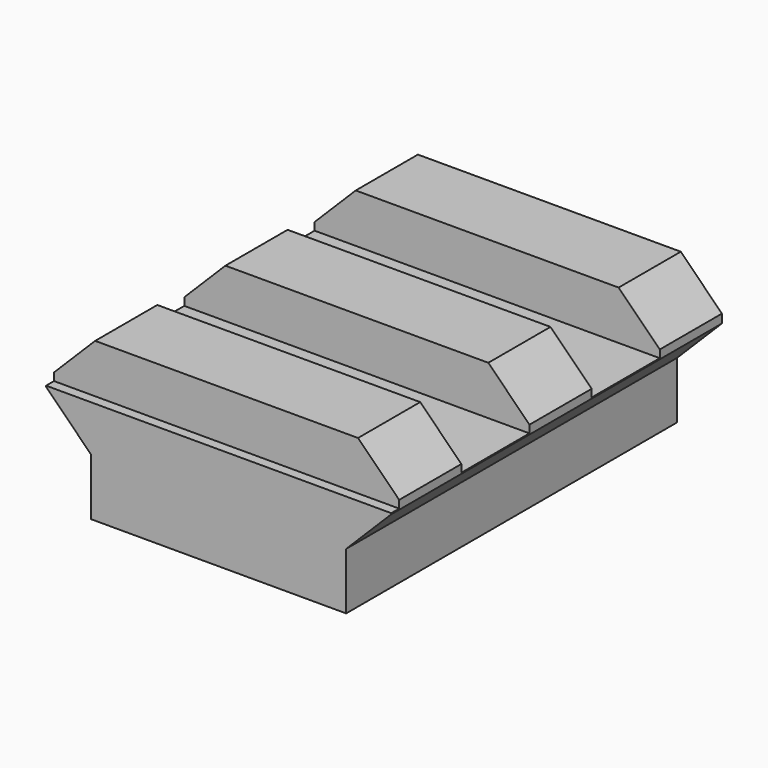
from build123d import *

# Parameters (mm, degrees)
F1_DEPTH = 25.4
F2_W     = 5.2324
F2_H     = 2.9972
F3_DEPTH = 21.21


with BuildPart() as f1:
    # F0 (on Front) → F1 (new body)
    with BuildSketch(Plane.XZ):
        Polygon((-7.8359, 3.4925), (-7.8359, 0), (7.8359, 0), (7.8359, 3.4925), (10.6045, 6.2611), (10.6045, 6.7945), (8.0772, 9.3218), (-8.0772, 9.3218), (-10.6045, 6.7945), (-10.6045, 6.2611), align=None)
    extrude(amount=F1_DEPTH)

    # F2 (on face) → F3 (cut, through all)
    with BuildSketch(Plane.YZ.offset(10.6045)):
        with Locations((2.6162, 7.8232)):
            Rectangle(F2_W, F2_H)
        with Locations((-7.3914, 7.8232)):
            Rectangle(F2_W, F2_H)
        with Locations((-17.399, 7.8232)):
            Rectangle(F2_W, F2_H)
        with Locations((-27.4066, 7.8232)):
            Rectangle(F2_W, F2_H)
    extrude(amount=-F3_DEPTH, mode=Mode.SUBTRACT)


solid = f1.part
